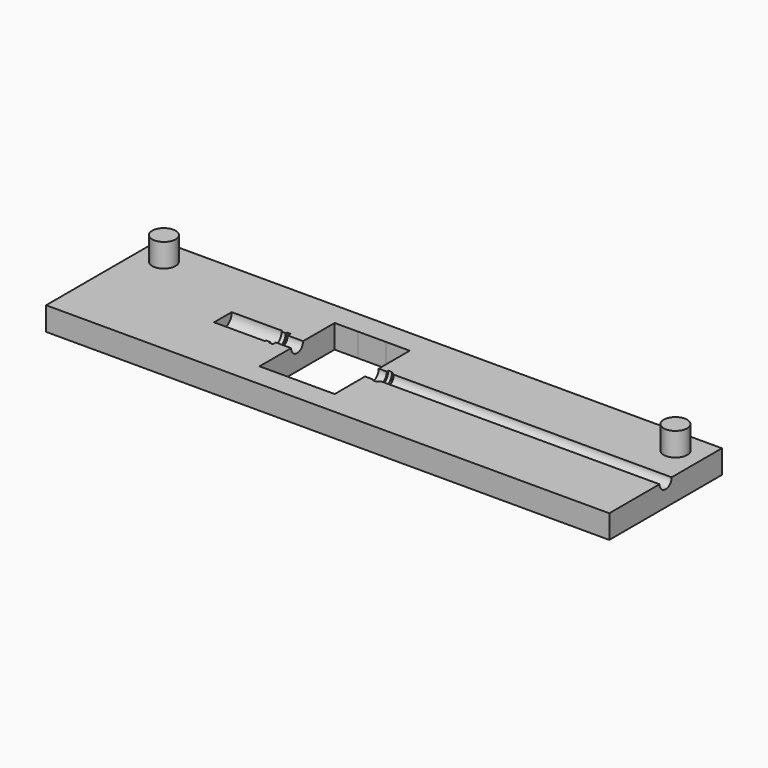
from build123d import *

# Parameters (mm, degrees)
F0_W      = 152.4
F0_H      = 38.1
F1_DEPTH  = 6.35
F2_R      = 2.0447
F3_DEPTH  = 76.2
F4_DEPTH  = 76.2
F5_R      = 2.7305
F6_DEPTH  = 1.016
F8_DEPTH  = 7.62
F9_R      = 3.5941
F10_DEPTH = 1.905
F11_R     = 4.7625
F12_DEPTH = 0.635
F13_R     = 1.524
F14_DEPTH = 1.00076
F15_W     = 25.4
F15_H     = 38.1
F16_DEPTH = 7.62
F18_DEPTH = 1.27
F19_R     = 3.2131
F20_DEPTH = 0.508
F22_DEPTH = 0.762
F23_R     = 2.032
F24_DEPTH = 8.382
F25_R     = 3.048
F26_DEPTH = 0.3556
F27_R     = 2.9718
F28_DEPTH = 0.6604
F29_R     = 2.6162
F30_DEPTH = 1.1176
F31_R     = 2.9845
F32_DEPTH = 13.7922
F33_R     = 3.175
F34_DEPTH = 6.35
F36_DEPTH = 2.7305
F37_W     = 20.3219614923
F37_H     = 25.3980793059
F38_DEPTH = 25.4


with BuildPart() as f1:
    # F0 (on Top) → F1 (new body)
    with BuildSketch(Plane.XY):
        Rectangle(F0_W, F0_H)
    extrude(amount=F1_DEPTH)

    # F2 (on face) → F3 (join)
    with BuildSketch(Plane.YZ.offset(76.2)):
        with Locations((0, 6.35)):
            Circle(F2_R)
    extrude(amount=-F3_DEPTH)

    # F2 (on face) → F4 (cut)
    with BuildSketch(Plane.YZ.offset(76.2)):
        with Locations((0, 6.35)):
            Circle(F2_R)
    extrude(amount=-F4_DEPTH, mode=Mode.SUBTRACT)

    # F5 (on face) → F6 (cut)
    with BuildSketch(Plane.YZ):
        with Locations((0, 6.35)):
            Circle(F5_R)
    extrude(amount=-F6_DEPTH, mode=Mode.SUBTRACT)

    # F7 (on face) → F8 (cut)
    with BuildSketch(Plane.YZ.offset(-1.016)):
        with BuildLine():
            ThreePointArc((-2.4118311998, 6.35), (-0.1004311998, 4.0386), (2.2109688002, 6.35))
            Line((2.2109688002, 6.35), (-2.4118311998, 6.35))
        make_face()
    extrude(amount=-F8_DEPTH, mode=Mode.SUBTRACT)

    # F9 (on face) → F10 (cut)
    with BuildSketch(Plane.YZ.offset(-8.636)):
        with Locations((-0.1004311998, 6.35)):
            Circle(F9_R)
    extrude(amount=F10_DEPTH, mode=Mode.SUBTRACT)

    # F11 (on face) → F12 (cut)
    with BuildSketch(Plane.YZ.offset(-8.636)):
        with Locations((0, 6.35)):
            Circle(F11_R)
        with BuildLine():
            ThreePointArc((3.4936688002, 6.35), (-0.1004311998, 2.7559), (-3.6945311998, 6.35))
            Line((-3.6945311998, 6.35), (3.4936688002, 6.35))
        make_face(mode=Mode.SUBTRACT)
    extrude(amount=F12_DEPTH, mode=Mode.SUBTRACT)

    # F13 (on face) → F14 (cut)
    with BuildSketch(Plane.YZ.offset(-8.636)):
        with Locations((0, 6.35)):
            Circle(F13_R)
    extrude(amount=-F14_DEPTH, mode=Mode.SUBTRACT)

    # F15 (on face) → F16 (cut)
    with BuildSketch(Plane.YZ.offset(-9.63676)):
        with Locations((0, 6.35)):
            Rectangle(F15_W, F15_H)
    extrude(amount=-F16_DEPTH, mode=Mode.SUBTRACT)

    # F17 (on face) → F18 (cut)
    with BuildSketch(Plane.YZ.offset(-17.25676)):
        with BuildLine():
            ThreePointArc((-1.524, 6.35), (0, 4.826), (1.524, 6.35))
            Line((1.524, 6.35), (-1.524, 6.35))
        make_face()
        with BuildLine():
            Line((-1.524, 6.35), (1.524, 6.35))
            ThreePointArc((1.524, 6.35), (0, 7.874), (-1.524, 6.35))
        make_face()
    extrude(amount=-F18_DEPTH, mode=Mode.SUBTRACT)

    # F19 (on face) → F20 (cut)
    with BuildSketch(Plane.YZ.offset(-18.52676)):
        with Locations((0, 6.35)):
            Circle(F19_R)
        with BuildLine():
            ThreePointArc((1.524, 6.35), (0, 4.826), (-1.524, 6.35))
            Line((-1.524, 6.35), (1.524, 6.35))
        make_face(mode=Mode.SUBTRACT)
    extrude(amount=F20_DEPTH, mode=Mode.SUBTRACT)

    # F21 (on face) → F22 (cut)
    with BuildSketch(Plane.YZ.offset(-18.52676)):
        with BuildLine():
            ThreePointArc((-2.9337, 6.35), (0, 3.4163), (2.9337, 6.35))
            Line((2.9337, 6.35), (-2.9337, 6.35))
        make_face()
        with BuildLine():
            Line((-2.9337, 6.35), (2.9337, 6.35))
            ThreePointArc((2.9337, 6.35), (0, 9.2837), (-2.9337, 6.35))
        make_face()
    extrude(amount=-F22_DEPTH, mode=Mode.SUBTRACT)

    # F23 (on face) → F24 (cut)
    with BuildSketch(Plane.YZ.offset(-19.28876)):
        with Locations((0, 6.35)):
            Circle(F23_R)
    extrude(amount=-F24_DEPTH, mode=Mode.SUBTRACT)

    # F25 (on face) → F26 (cut)
    with BuildSketch(Plane.YZ.offset(-27.67076)):
        with Locations((0, 6.35)):
            Circle(F25_R)
    extrude(amount=-F26_DEPTH, mode=Mode.SUBTRACT)

    # F27 (on face) → F28 (cut)
    with BuildSketch(Plane.YZ.offset(-28.02636)):
        with Locations((0, 6.35)):
            Circle(F27_R)
    extrude(amount=-F28_DEPTH, mode=Mode.SUBTRACT)

    # F29 (on face) → F30 (cut)
    with BuildSketch(Plane.YZ.offset(-28.68676)):
        with Locations((0, 6.35)):
            Circle(F29_R)
    extrude(amount=-F30_DEPTH, mode=Mode.SUBTRACT)

    # F31 (on face) → F32 (cut)
    with BuildSketch(Plane.YZ.offset(-29.80436)):
        with Locations((0, 6.35)):
            Circle(F31_R)
    extrude(amount=-F32_DEPTH, mode=Mode.SUBTRACT)

    # F33 (on face) → F34 (join)
    with BuildSketch(Plane.XY.offset(6.35)):
        with Locations((-69.215, 12.065)):
            Circle(F33_R)
        with Locations((69.215, 12.065)):
            Circle(F33_R)
    extrude(amount=F34_DEPTH)

    # F35 (on face) → F36 (cut)
    with BuildSketch(Plane.XY.offset(6.35)):
        Polygon((1.016, 2.0447), (0, 2.7305), (0, -2.7305), (1.016, -2.0447), align=None)
    extrude(amount=-F36_DEPTH, mode=Mode.SUBTRACT)

    # F37 (on face) → F38 (cut)
    with BuildSketch(Plane.XY.offset(6.35)):
        with Locations((-13.3582856506, 0)):
            Rectangle(F37_W, F37_H)
    extrude(amount=-F38_DEPTH, mode=Mode.SUBTRACT)


solid = f1.part
